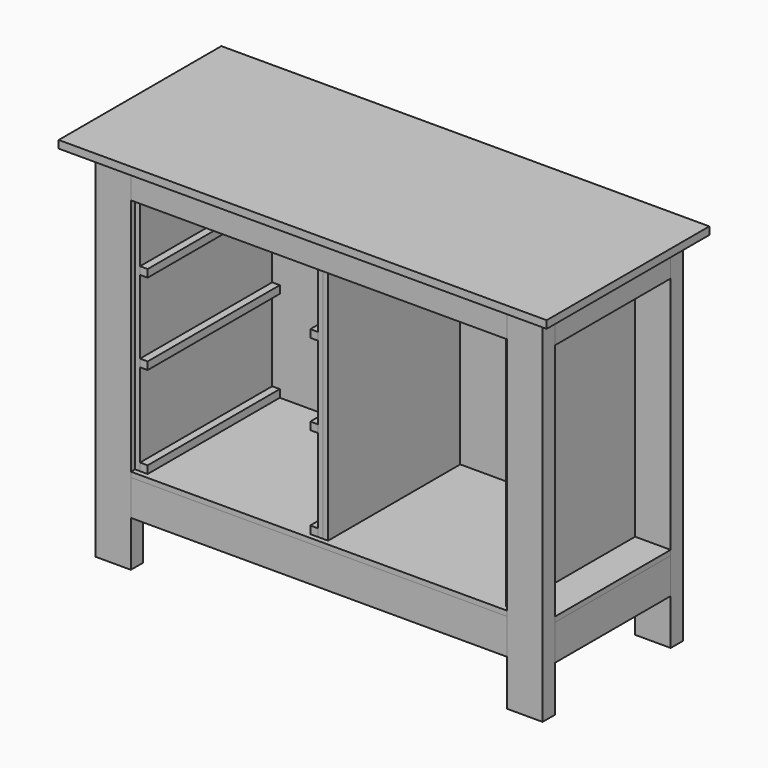
from build123d import *

# Parameters (mm, degrees)
F0_W      = 1219.2
F0_H      = 19.05
F1_DEPTH  = 508
F3_W      = 88.9
F3_H      = 38.1
F4_DEPTH  = 901.7
F6_W      = 939.8
F6_H      = 38.1
F7_DEPTH  = 88.9
F5_W      = 939.8
F5_H      = 38.1
F8_DEPTH  = 88.9
F9_W      = 38.1
F9_H      = 361.95
F10_DEPTH = 88.9
F11_W     = 50.8
F11_H     = 38.1
F12_DEPTH = 88.9
F14_W     = 939.8
F14_H     = 38.1
F15_DEPTH = 88.9
F16_W     = 38.1
F16_H     = 361.95
F17_DEPTH = 88.9
F19_DEPTH = 12.7
F21_DEPTH = 12.7
F22_DEPTH = 12.7
F24_DEPTH = 12.7
F26_DEPTH = 12.7
F27_W     = 939.8
F27_H     = 12.7
F28_DEPTH = 596.9
F30_W     = 412.75
F30_H     = 19.05
F31_DEPTH = 19.05
F32_W     = 412.75
F32_H     = 19.05
F33_DEPTH = 19.05


with BuildPart() as f1:
    # F0 (on Front) → F1 (new body)
    with BuildSketch(Plane.XZ):
        with Locations((0, 9.525)):
            Rectangle(F0_W, F0_H)
    extrude(amount=-F1_DEPTH)


with BuildPart() as f4:
    # F3 (on face) → F4 (new body)
    with BuildSketch(Plane(origin=(0, 0, 0), x_dir=(1, 0, 0), z_dir=(0, 0, -1))):
        with Locations((514.35, -69.85)):
            Rectangle(F3_W, F3_H)
    extrude(amount=F4_DEPTH)


with BuildPart() as f4b:
    # F3 (on face) → F4, piece 2 (new body)
    with BuildSketch(Plane(origin=(0, 0, 0), x_dir=(1, 0, 0), z_dir=(0, 0, -1))):
        with Locations((-514.35, -69.85)):
            Rectangle(F3_W, F3_H)
    extrude(amount=F4_DEPTH)


with BuildPart() as f4c:
    # F3 (on face) → F4, piece 3 (new body)
    with BuildSketch(Plane(origin=(0, 0, 0), x_dir=(1, 0, 0), z_dir=(0, 0, -1))):
        with Locations((-514.35, -469.9)):
            Rectangle(F3_W, F3_H)
    extrude(amount=F4_DEPTH)


with BuildPart() as f4d:
    # F3 (on face) → F4, piece 4 (new body)
    with BuildSketch(Plane(origin=(0, 0, 0), x_dir=(1, 0, 0), z_dir=(0, 0, -1))):
        with Locations((514.35, -469.9)):
            Rectangle(F3_W, F3_H)
    extrude(amount=F4_DEPTH)


with BuildPart() as f7:
    # F6 (on face) → F7 (new body)
    with BuildSketch(Plane(origin=(0, 0, 0), x_dir=(1, 0, 0), z_dir=(0, 0, -1))):
        with Locations((0, -469.9)):
            Rectangle(F6_W, F6_H)
    extrude(amount=F7_DEPTH)


with BuildPart() as f8:
    # F5 (on face) → F8 (new body)
    with BuildSketch(Plane(origin=(0, 0, 0), x_dir=(1, 0, 0), z_dir=(0, 0, -1))):
        with Locations((0, -69.85)):
            Rectangle(F5_W, F5_H)
    extrude(amount=F8_DEPTH)


with BuildPart() as f10:
    # F9 (on face) → F10 (new body)
    with BuildSketch(Plane(origin=(0, 0, 0), x_dir=(1, 0, 0), z_dir=(0, 0, -1))):
        with Locations((-539.75, -269.875)):
            Rectangle(F9_W, F9_H)
    extrude(amount=F10_DEPTH)


with BuildPart() as f10b:
    # F9 (on face) → F10, piece 2 (new body)
    with BuildSketch(Plane(origin=(0, 0, 0), x_dir=(1, 0, 0), z_dir=(0, 0, -1))):
        with Locations((539.75, -269.875)):
            Rectangle(F9_W, F9_H)
    extrude(amount=F10_DEPTH)


with BuildPart() as f12:
    # F11 (on face) → F12 (new body)
    with BuildSketch(Plane(origin=(0, 0, 0), x_dir=(1, 0, 0), z_dir=(0, 0, -1))):
        with Locations((-495.3, -107.95)):
            Rectangle(F11_W, F11_H)
    extrude(amount=F12_DEPTH)


with BuildPart() as f12b:
    # F11 (on face) → F12, piece 2 (new body)
    with BuildSketch(Plane(origin=(0, 0, 0), x_dir=(1, 0, 0), z_dir=(0, 0, -1))):
        with Locations((-495.3, -431.8)):
            Rectangle(F11_W, F11_H)
    extrude(amount=F12_DEPTH)


with BuildPart() as f12c:
    # F11 (on face) → F12, piece 3 (new body)
    with BuildSketch(Plane(origin=(0, 0, 0), x_dir=(1, 0, 0), z_dir=(0, 0, -1))):
        with Locations((495.3, -107.95)):
            Rectangle(F11_W, F11_H)
    extrude(amount=F12_DEPTH)


with BuildPart() as f12d:
    # F11 (on face) → F12, piece 4 (new body)
    with BuildSketch(Plane(origin=(0, 0, 0), x_dir=(1, 0, 0), z_dir=(0, 0, -1))):
        with Locations((495.3, -431.8)):
            Rectangle(F11_W, F11_H)
    extrude(amount=F12_DEPTH)


with BuildPart() as f15:
    # F14 (on offset) → F15 (new body)
    with BuildSketch(Plane(origin=(0, 0, -698.5), x_dir=(1, 0, 0), z_dir=(0, 0, -1))):
        with Locations((0, -69.85)):
            Rectangle(F14_W, F14_H)
    extrude(amount=F15_DEPTH)


with BuildPart() as f15b:
    # F14 (on offset) → F15, piece 2 (new body)
    with BuildSketch(Plane(origin=(0, 0, -698.5), x_dir=(1, 0, 0), z_dir=(0, 0, -1))):
        with Locations((0, -469.9)):
            Rectangle(F14_W, F14_H)
    extrude(amount=F15_DEPTH)


with BuildPart() as f17:
    # F16 (on offset) → F17 (new body)
    with BuildSketch(Plane(origin=(0, 0, -698.5), x_dir=(1, 0, 0), z_dir=(0, 0, -1))):
        with Locations((-539.75, -269.875)):
            Rectangle(F16_W, F16_H)
    extrude(amount=F17_DEPTH)


with BuildPart() as f17b:
    # F16 (on offset) → F17, piece 2 (new body)
    with BuildSketch(Plane(origin=(0, 0, -698.5), x_dir=(1, 0, 0), z_dir=(0, 0, -1))):
        with Locations((539.75, -269.875)):
            Rectangle(F16_W, F16_H)
    extrude(amount=F17_DEPTH)


with BuildPart() as f19:
    # F18 (on offset) → F19 (new body)
    with BuildSketch(Plane(origin=(0, 0, -698.5), x_dir=(1, 0, 0), z_dir=(0, 0, -1))):
        Polygon((469.9, -450.85), (558.8, -450.85), (558.8, -88.9), (469.9, -88.9), (469.9, -50.8), (-469.9, -50.8), (-469.9, -88.9), (-558.8, -88.9), (-558.8, -450.85), (-469.9, -450.85), (-469.9, -488.95), (469.9, -488.95), align=None)
    extrude(amount=-F19_DEPTH)


with BuildPart() as f21:
    # F20 (on Right) → F21 (new body)
    with BuildSketch(Plane.YZ):
        Polygon((450.85, -88.9), (450.85, 0), (88.9, 0), (88.9, -88.9), (63.5, -88.9), (63.5, -685.8), (476.25, -685.8), (476.25, -88.9), align=None)
    extrude(amount=F21_DEPTH)


with BuildPart() as f22:
    # F20 (on Right) → F22 (new body)
    with BuildSketch(Plane.YZ):
        Polygon((450.85, -88.9), (450.85, 0), (88.9, 0), (88.9, -88.9), (63.5, -88.9), (63.5, -685.8), (476.25, -685.8), (476.25, -88.9), align=None)
    extrude(amount=-F22_DEPTH)


with BuildPart() as f24:
    # F23 (on face) → F24 (new body)
    with BuildSketch(Plane.YZ.offset(-469.9)):
        Polygon((450.85, -88.9), (450.85, 0), (88.9, 0), (88.9, -88.9), (63.5, -88.9), (63.5, -685.8), (476.25, -685.8), (476.25, -88.9), align=None)
    extrude(amount=F24_DEPTH)


with BuildPart() as f26:
    # F25 (on face) → F26 (new body)
    with BuildSketch(Plane(origin=(469.9, 0, 0), x_dir=(0, -1, 0), z_dir=(-1, 0, 0))):
        Polygon((-88.9, 0), (-450.85, 0), (-450.85, -88.9), (-476.25, -88.9), (-476.25, -685.8), (-63.5, -685.8), (-63.5, -88.9), (-88.9, -88.9), align=None)
    extrude(amount=F26_DEPTH)


with BuildPart() as f28:
    # F27 (on face) → F28 (new body)
    with BuildSketch(Plane(origin=(0, 0, -88.9), x_dir=(1, 0, 0), z_dir=(0, 0, -1))):
        with Locations((0, -482.6)):
            Rectangle(F27_W, F27_H)
    extrude(amount=F28_DEPTH)


with BuildPart() as f31:
    # F30 (on face) → F31 (new body)
    with BuildSketch(Plane.YZ.offset(-457.2)):
        with Locations((269.875, -244.475)):
            Rectangle(F30_W, F30_H)
    extrude(amount=F31_DEPTH)


with BuildPart() as f31b:
    # F30 (on face) → F31, piece 2 (new body)
    with BuildSketch(Plane.YZ.offset(-457.2)):
        with Locations((269.875, -447.675)):
            Rectangle(F30_W, F30_H)
    extrude(amount=F31_DEPTH)


with BuildPart() as f31c:
    # F30 (on face) → F31, piece 3 (new body)
    with BuildSketch(Plane.YZ.offset(-457.2)):
        with Locations((269.875, -676.275)):
            Rectangle(F30_W, F30_H)
    extrude(amount=F31_DEPTH)


with BuildPart() as f33:
    # F32 (on face) → F33 (new body)
    with BuildSketch(Plane(origin=(-12.7, 0, 0), x_dir=(0, -1, 0), z_dir=(-1, 0, 0))):
        with Locations((-269.875, -244.475)):
            Rectangle(F32_W, F32_H)
    extrude(amount=F33_DEPTH)


with BuildPart() as f33b:
    # F32 (on face) → F33, piece 2 (new body)
    with BuildSketch(Plane(origin=(-12.7, 0, 0), x_dir=(0, -1, 0), z_dir=(-1, 0, 0))):
        with Locations((-269.875, -447.675)):
            Rectangle(F32_W, F32_H)
    extrude(amount=F33_DEPTH)


with BuildPart() as f33c:
    # F32 (on face) → F33, piece 3 (new body)
    with BuildSketch(Plane(origin=(-12.7, 0, 0), x_dir=(0, -1, 0), z_dir=(-1, 0, 0))):
        with Locations((-269.875, -676.275)):
            Rectangle(F32_W, F32_H)
    extrude(amount=F33_DEPTH)


solid = Compound([f1.part, f4.part, f4b.part, f4c.part, f4d.part, f7.part, f8.part, f10.part, f10b.part, f12.part, f12b.part, f12c.part, f12d.part, f15.part, f15b.part, f17.part, f17b.part, f19.part, f21.part, f22.part, f24.part, f26.part, f28.part, f31.part, f31b.part, f31c.part, f33.part, f33b.part, f33c.part])
